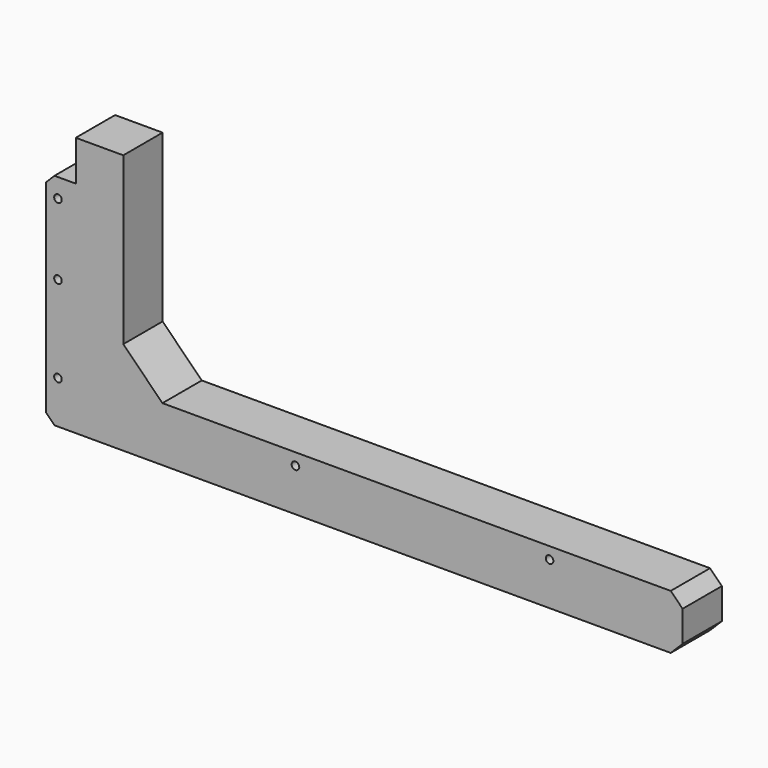
from build123d import *

# Parameters (mm, degrees)
F0_R     = 1.6
F1_DEPTH = 20.7


with BuildPart() as f1:
    # F0 (on Front) → F1 (new body)
    with BuildSketch(Plane.XZ):
        Polygon((163, 0), (158, 5), (158, -18), (163, -13), align=None)
        Polygon((158, -18), (158, 5), (-56, 5), (-72.5, 21.5), (-72.5, 91.5), (-92.5, 91.5), (-92.5, 74.5), (-101.464466, 74.5), (-105, 70.964466), (-105, -14.464466), (-101.464466, -18), align=None)
        with Locations((-100, 0)):
            Circle(F0_R, mode=Mode.SUBTRACT)
        Circle(F0_R, mode=Mode.SUBTRACT)
        with Locations((-100, 36.5)):
            Circle(F0_R, mode=Mode.SUBTRACT)
        with Locations((107, 0)):
            Circle(F0_R, mode=Mode.SUBTRACT)
        with Locations((-100, 66.5)):
            Circle(F0_R, mode=Mode.SUBTRACT)
    extrude(amount=F1_DEPTH)


solid = f1.part
